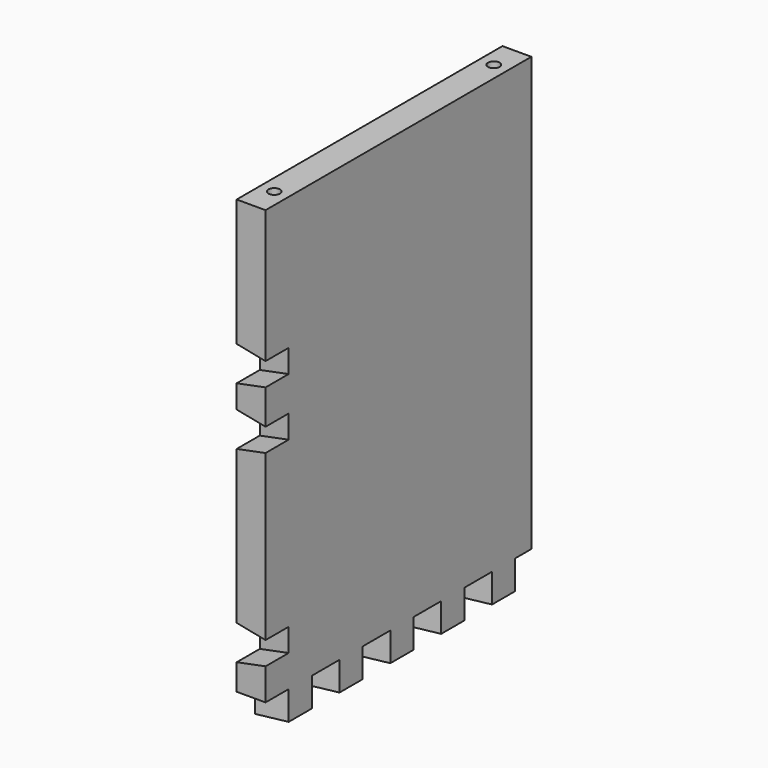
from build123d import *

# Parameters (mm, degrees)
F0_W     = 115
F0_H     = 160
F1_DEPTH = 10
F3_DEPTH = 10
F5_DEPTH = 10
F6_R     = 2
F7_DEPTH = 10


with BuildPart() as f1:
    # F0 (on Right) → F1 (new body)
    with BuildSketch(Plane.YZ):
        with Locations((22.5, 7.532959)):
            Rectangle(F0_W, F0_H)
    extrude(amount=F1_DEPTH)

    # F2 (on face) → F3 (cut)
    with BuildSketch(Plane.XZ.offset(35)):
        Polygon((10, 41.532959), (0, 43.532959), (0, 31.532959), (10, 33.532959), align=None)
        Polygon((10, 21.532959), (0, 23.532959), (0, 11.532959), (10, 13.532959), align=None)
        Polygon((10, -43.467041), (0, -41.467041), (0, -53.467041), (10, -51.467041), align=None)
    extrude(amount=-F3_DEPTH, mode=Mode.SUBTRACT)

    # F4 (on face) → F5 (cut)
    with BuildSketch(Plane(origin=(0, 0, -72.467041), x_dir=(1, 0, 0), z_dir=(0, 0, -1))):
        Polygon((10, 37), (0, 35), (0, 27), (10, 25), align=None)
        Polygon((10, 3), (10, 15), (0, 13), (0, 5), align=None)
        Polygon((10, -19), (10, -7), (0, -9), (0, -17), align=None)
        Polygon((10, -41), (10, -29), (0, -31), (0, -39), align=None)
        Polygon((10, -63), (10, -51), (0, -53), (0, -61), align=None)
        Polygon((10, -85), (10, -73), (0, -75), (0, -83), align=None)
    extrude(amount=-F5_DEPTH, mode=Mode.SUBTRACT)

    # F6 (on face) → F7 (cut)
    with BuildSketch(Plane.XY.offset(87.532959)):
        with Locations((5, 70)):
            Circle(F6_R)
        with Locations((5, -25)):
            Circle(F6_R)
    extrude(amount=-F7_DEPTH, mode=Mode.SUBTRACT)


solid = f1.part
